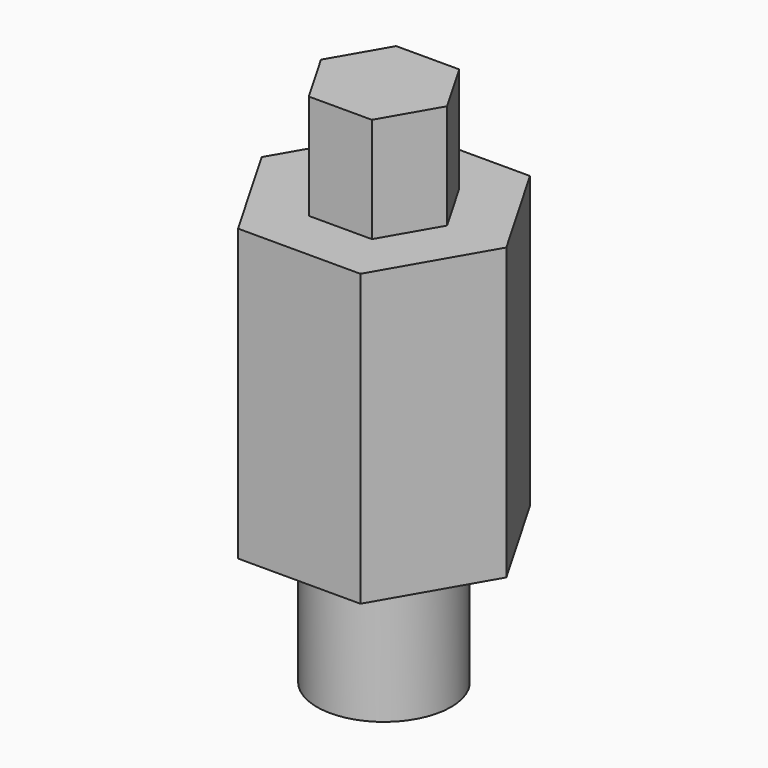
from build123d import *

# Parameters (mm, degrees)
F1_DEPTH = 92.71
F3_DEPTH = 33.528
F4_R     = 21.401404
F5_DEPTH = 42.164


with BuildPart() as f1:
    # F0 (on Top) → F1 (new body)
    with BuildSketch(Plane.XY):
        Polygon((19.526986, 33.821732), (-19.526986, 33.821732), (-39.053972, 0), (-19.526986, -33.821732), (19.526986, -33.821732), (39.053972, 0), align=None)
    extrude(amount=F1_DEPTH)

    # F2 (on face) → F3 (join)
    with BuildSketch(Plane.XY.offset(92.71)):
        Polygon((10.06457, 17.432347), (-10.06457, 17.432347), (-20.12914, 0), (-10.06457, -17.432347), (10.06457, -17.432347), (20.12914, 0), align=None)
    extrude(amount=F3_DEPTH)

    # F4 (on face) → F5 (join)
    with BuildSketch(Plane(origin=(0, 0, 0), x_dir=(1, 0, 0), z_dir=(0, 0, -1))):
        Circle(F4_R)
    extrude(amount=F5_DEPTH)


solid = f1.part
